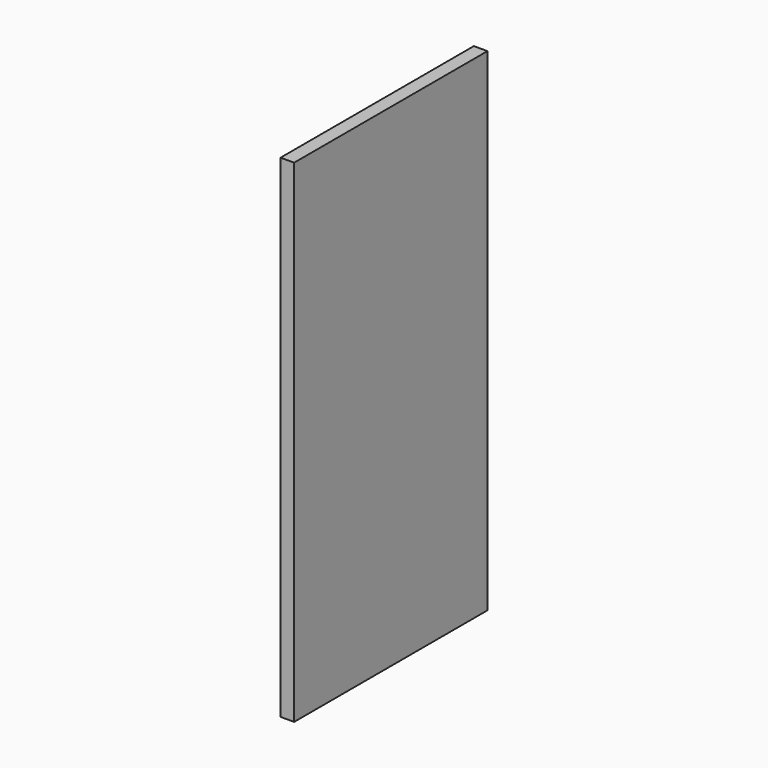
from build123d import *

# Parameters (mm, degrees)
F0_W      = 508
F0_H      = 704.85
F1_DEPTH  = 28.575
F1_FACE_W = 28.575
F1_FACE_H = 508
F2_DEPTH  = 330.2


with BuildPart() as f1:
    # F0 (on Right) → F1 (new body)
    with BuildSketch(Plane.YZ):
        Rectangle(F0_W, F0_H)
    extrude(amount=F1_DEPTH)

    # F1_face (on face) → F2 (join)
    with BuildSketch(Plane(origin=(14.2875, 0, 352.425), x_dir=(1, 0, 0), z_dir=(0, 0, 1))):
        Rectangle(F1_FACE_W, F1_FACE_H)
    extrude(amount=F2_DEPTH)


solid = f1.part
